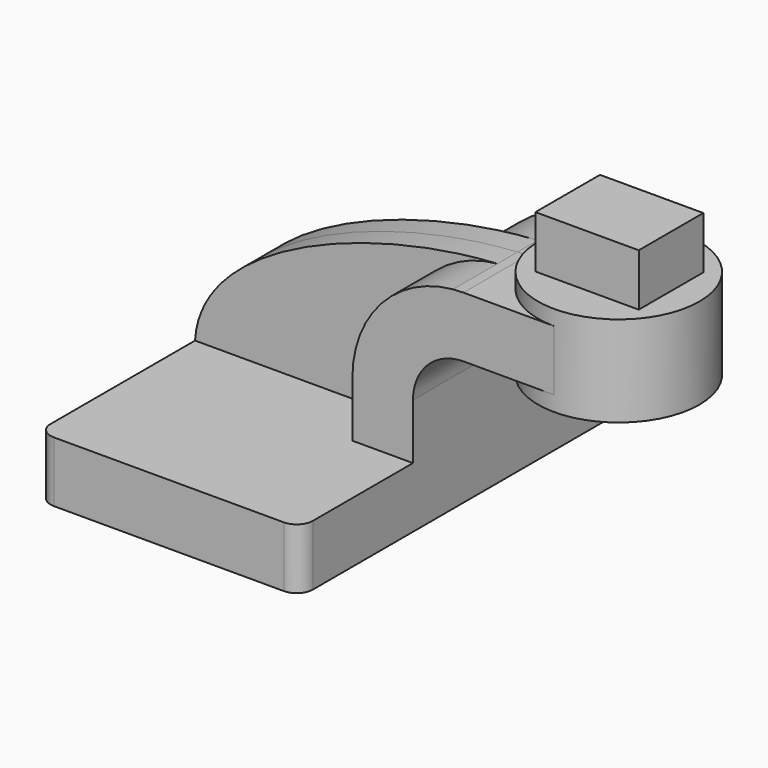
from build123d import *

# Parameters (mm, degrees)
F1_DEPTH = 69.85
F0_W     = 25.4
F0_H     = 19.05
F2_DEPTH = 25.4
F3_DEPTH = 7.9375
F5_R     = 5.08
F6_DEPTH = 12.7


with BuildPart() as f1:
    # F0 (on Front) → F1 (new body, symmetric)
    with BuildSketch(Plane.XZ):
        Polygon((22.225, 9.525), (-41.275, 9.525), (-41.275, -9.525), (41.275, -9.525), (41.275, 9.525), align=None)
    extrude(amount=F1_DEPTH, both=True)

    # F0 (on Front) → F2 (join, symmetric)
    with BuildSketch(Plane.XZ):
        with BuildLine():
            Line((22.225, 27.0002), (22.225, 9.525))
            Line((22.225, 9.525), (41.275, 9.525))
            Line((41.275, 9.525), (41.275, 27.0002))
            ThreePointArc((41.275, 27.0002), (45.92468, 38.22552), (57.15, 42.8752))
            Line((57.15, 42.8752), (60.325, 42.8752))
            Line((60.325, 42.8752), (60.325, 61.9252))
            Line((60.325, 61.9252), (57.15, 61.9252))
            add(Edge.make_bspline(
                [(53.885434, 61.77229), (54.984207, 61.836587), (56.072845, 61.88761), (57.15, 61.9252)],
                knots=[108.524581, 108.524581, 108.524581, 108.524581, 111.504536, 111.504536, 111.504536, 111.504536], degree=3))
            ThreePointArc((53.885434, 61.77229), (31.325878, 50.513395), (22.225, 27.0002))
        make_face()
        with Locations((73.025, 52.4002)):
            Rectangle(F0_W, F0_H)
    extrude(amount=F2_DEPTH, both=True)

    # F0 (on Front) → F3 (join, symmetric)
    with BuildSketch(Plane.XZ):
        with BuildLine():
            add(Edge.make_bspline(
                [(-41.275, 9.525), (-39.585628, 39.482877), (13.870125, 59.430698), (53.885434, 61.77229)],
                knots=[0, 0, 0, 0, 108.524581, 108.524581, 108.524581, 108.524581], degree=3))
            Line((-41.275, 9.525), (22.225, 9.525))
            Line((22.225, 9.525), (22.225, 27.0002))
            ThreePointArc((22.225, 27.0002), (31.325878, 50.513395), (53.885434, 61.77229))
        make_face()
    extrude(amount=F3_DEPTH, both=True)

    # F0 (on Front) → F4 (revolve)
    with BuildSketch(Plane.XZ):
        Polygon((85.725, 66.675), (85.725, 61.9252), (85.725, 42.8752), (85.725, 38.1), (111.125, 38.1), (111.125, 66.675), (102.182791, 66.675), align=None)
    revolve(axis=Axis((85.725, 0, 52.3875), (0, 0, 1)))

    # F5
    f5_edges = [f1.edges().sort_by_distance(p)[0] for p in [
        (41.275, -69.85, 0),
        (-41.275, -69.85, 0),
        (41.275, 69.85, 0),
        (-41.275, 69.85, 0),
    ]]
    fillet(f5_edges, radius=F5_R)

    # F0 (on Front) → F6 (join, symmetric)
    with BuildSketch(Plane.XZ):
        Polygon((69.660425, 83.131745), (69.660425, 66.675), (85.725, 66.675), (102.182791, 66.675), (102.182791, 83.131745), align=None)
    extrude(amount=F6_DEPTH, both=True)


solid = f1.part
